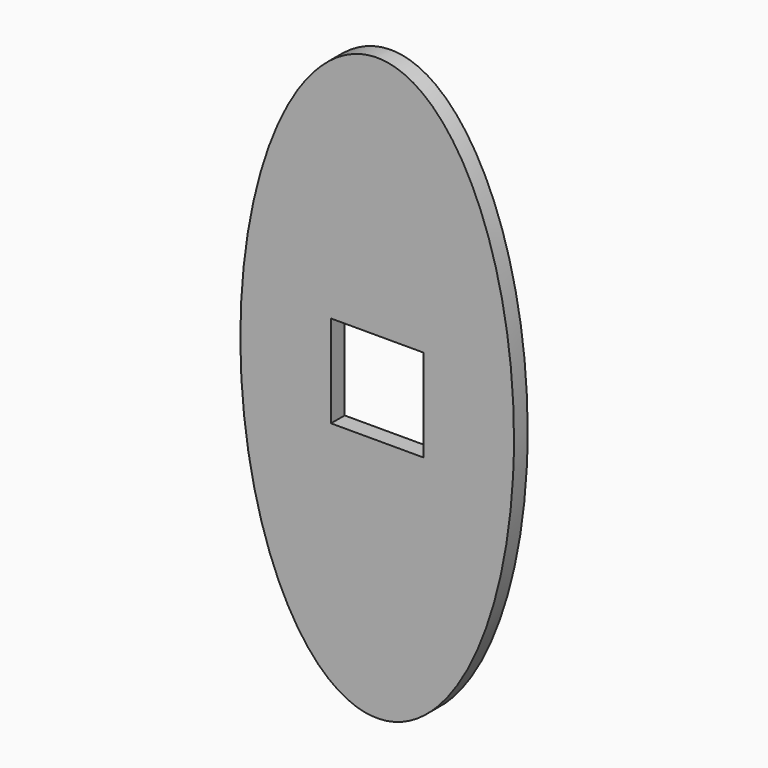
from build123d import *

# Parameters (mm, degrees)
F2_DEPTH = 5


with BuildPart() as f2:
    # F0 (on Front) → F2 (new body)
    with BuildSketch(Plane.XZ):
        with BuildLine():
            Line((27, 0), (0, 0))
            Line((0, 0), (0, 27))
            Line((0, 27), (13.5, 27))
            Line((13.5, 27), (13.5, 98.5))
            add(Edge.make_bspline(
                [(13.5, 98.5), (-83.068542, 98.5), (-14.784271, -46.604076), (53.5, -191.708153), (53.5, 13.5)],
                knots=[0, 0, 0, 2.356194, 2.356194, 4.712389, 4.712389, 4.712389], degree=2, weights=[1, 0.382683, 1, 0.382683, 1]))
            Line((53.5, 13.5), (27, 13.5))
            Line((27, 13.5), (27, 0))
        make_face()
        with BuildLine():
            Line((27, 27), (27, 13.5))
            Line((27, 13.5), (53.5, 13.5))
            add(Edge.make_bspline(
                [(53.5, 13.5), (53.5, 98.5), (13.5, 98.5)],
                knots=[4.712389, 4.712389, 4.712389, 6.283185, 6.283185, 6.283185], degree=2, weights=[1, 0.707107, 1]))
            Line((13.5, 98.5), (13.5, 27))
            Line((13.5, 27), (27, 27))
        make_face()
    extrude(amount=F2_DEPTH)


solid = f2.part
